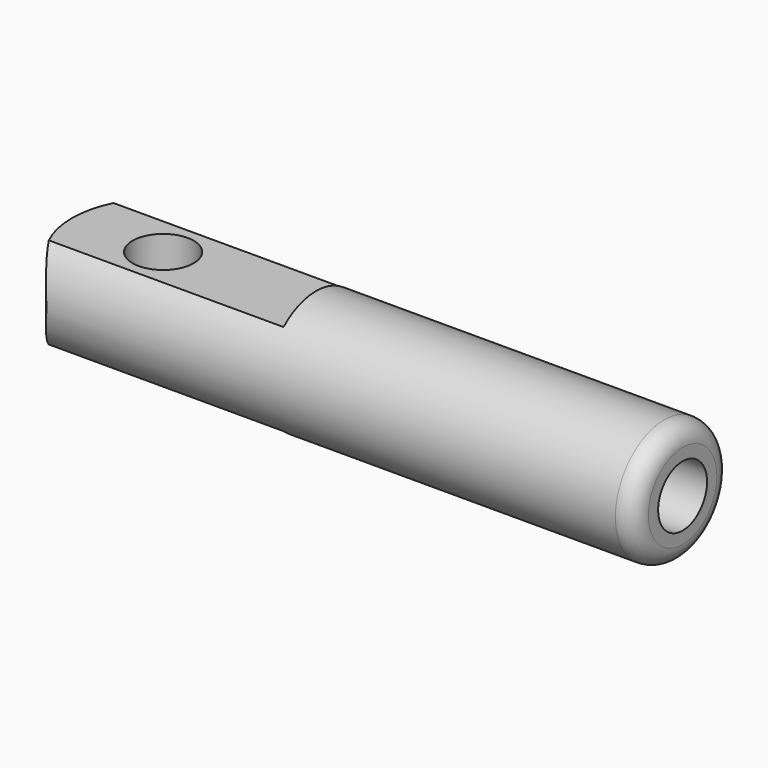
from build123d import *

# Parameters (mm, degrees)
F2_W     = 4
F2_H     = 0.3307065285
F3_DEPTH = 12.5
F4_R     = 0.5
F5_DEPTH = 12.5
F6_R     = 0.3


with BuildPart() as f1:
    # F0 (on Front) → F1 (revolve)
    with BuildSketch(Plane.XZ):
        Polygon((0, 1), (0, 0), (5, 0), (5, 0.5), (10, 0.5), (10, 1), align=None)
    revolve(axis=Axis((2.5, 0, 0), (-1, 0, 0)))

    # F2 (on Front) → F3 (cut, symmetric)
    with BuildSketch(Plane.XZ):
        with Locations((2, 0.9153532643)):
            Rectangle(F2_W, F2_H)
        with Locations((2, -0.9153532643)):
            Rectangle(F2_W, F2_H)
    extrude(amount=F3_DEPTH, both=True, mode=Mode.SUBTRACT)

    # F4 (on Top) → F5 (cut, symmetric)
    with BuildSketch(Plane.XY):
        with BuildLine():
            Line((-0.3413671802, -1.1073484784), (0.495219545, -1.1073484784))
            ThreePointArc((0.495219545, -1.1073484784), (0.1759867726, -0.6948333534), (0.0178750956, -0.197762947))
            ThreePointArc((0.0178750956, -0.197762947), (0.0047393487, 0), (0.0178750956, 0.197762947))
            ThreePointArc((0.0178750956, 0.197762947), (0.1759867726, 0.6948333534), (0.495219545, 1.1073484784))
            Line((0.495219545, 1.1073484784), (-0.3413671802, 1.1073484784))
            Line((-0.3413671802, 1.1073484784), (-0.3413671802, 0))
            Line((-0.3413671802, 0), (-0.3413671802, -1.1073484784))
        make_face()
        with Locations((1.5, 0)):
            Circle(F4_R)
    extrude(amount=F5_DEPTH, both=True, mode=Mode.SUBTRACT)

    # F6
    f6_edges = [f1.edges().sort_by_distance(p)[0] for p in [
        (10, 0, -1),
    ]]
    fillet(f6_edges, radius=F6_R)


solid = f1.part
